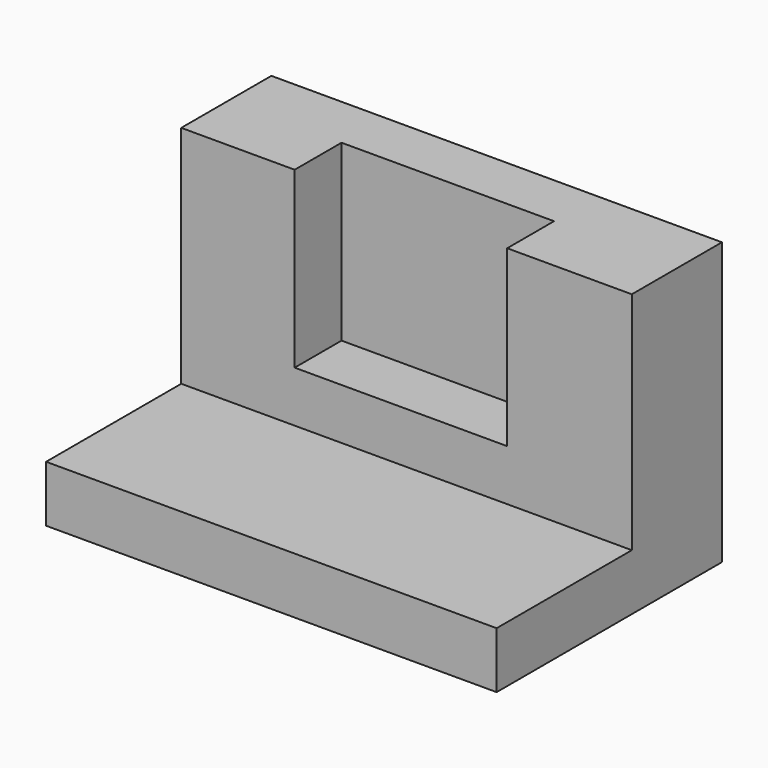
from build123d import *

# Parameters (mm, degrees)
F1_DEPTH = 101.6
F2_W     = 47.920428
F2_H     = 39.289536
F3_DEPTH = 13.208


with BuildPart() as f1:
    # F0 (on Right) → F1 (new body)
    with BuildSketch(Plane.YZ):
        Polygon((9.772886, -18.784101), (-28.327114, -18.784101), (-28.327114, -31.484101), (35.172886, -31.484101), (35.172886, 32.015899), (9.772886, 32.015899), align=None)
    extrude(amount=-F1_DEPTH)

    # F2 (on face) → F3 (cut)
    with BuildSketch(Plane.XZ.offset(-9.772886)):
        with Locations((-52.063208, 12.371131)):
            Rectangle(F2_W, F2_H)
    extrude(amount=-F3_DEPTH, mode=Mode.SUBTRACT)


solid = f1.part
